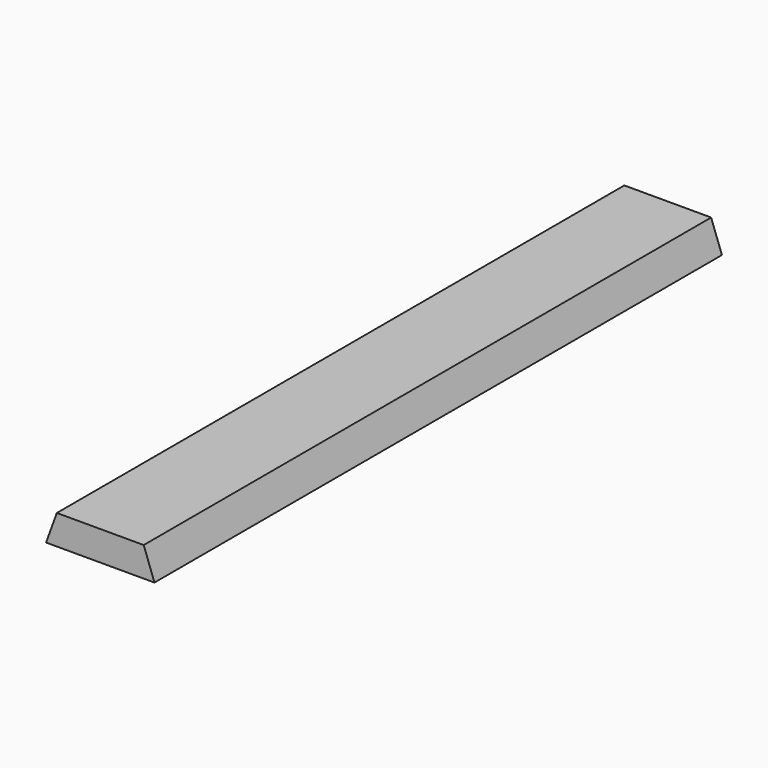
from build123d import *

# Parameters (mm, degrees)
F0_W     = 139.7
F0_H     = 38.1
F1_DEPTH = 914.4
F3_DEPTH = 914.4


with BuildPart() as f1:
    # F0 (on Front) → F1 (new body)
    with BuildSketch(Plane.XZ):
        with Locations((69.85, 19.05)):
            Rectangle(F0_W, F0_H)
    extrude(amount=F1_DEPTH)

    # F2 (on face) → F3 (cut)
    with BuildSketch(Plane.XZ.offset(914.4)):
        Polygon((0, 38.1), (0, 0), (13.867266, 38.1), align=None)
        Polygon((125.832734, 38.1), (139.7, 0), (139.7, 38.1), align=None)
    extrude(amount=-F3_DEPTH, mode=Mode.SUBTRACT)


solid = f1.part
